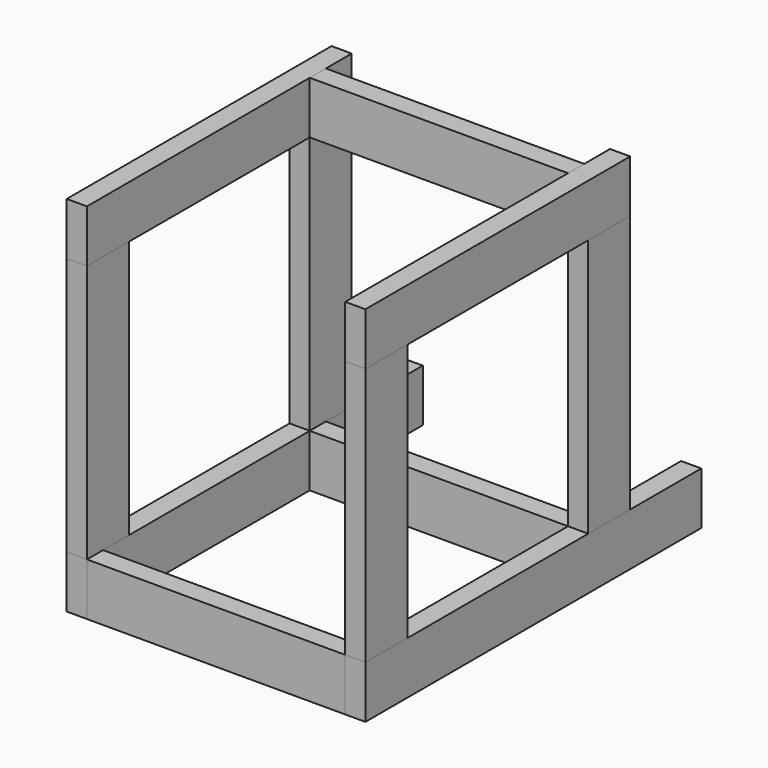
from build123d import *

# Parameters (mm, degrees)
F0_W      = 406.4
F0_H      = 31.75
F1_DEPTH  = 82.55
F2_W      = 31.75
F2_H      = 660.4
F3_DEPTH  = 82.55
F4_W      = 82.55
F4_H      = 406.4
F5_DEPTH  = 31.75
F7_DEPTH  = 31.75
F9_W      = 406.4
F9_H      = 82.55
F10_DEPTH = 31.75


with BuildPart() as f1:
    # F0 (on Top) → F1 (new body)
    with BuildSketch(Plane.XY):
        with Locations((0, 219.075)):
            Rectangle(F0_W, F0_H)
        with Locations((0, -219.075)):
            Rectangle(F0_W, F0_H)
    extrude(amount=F1_DEPTH)


with BuildPart() as f3:
    # F2 (on Top) → F3 (new body)
    with BuildSketch(Plane.XY):
        with Locations((-219.075, 95.25)):
            Rectangle(F2_W, F2_H)
        with Locations((219.075, 95.25)):
            Rectangle(F2_W, F2_H)
    extrude(amount=F3_DEPTH)


with BuildPart() as f5:
    # F4 (on face) → F5 (new body)
    with BuildSketch(Plane.YZ.offset(234.95)):
        with Locations((-193.675, 285.75)):
            Rectangle(F4_W, F4_H)
        with Locations((244.475, 285.75)):
            Rectangle(F4_W, F4_H)
    extrude(amount=-F5_DEPTH)


with BuildPart() as f7:
    # F6 (on face) → F7 (new body)
    with BuildSketch(Plane.YZ.offset(234.95)):
        Polygon((-234.95, 571.5), (-234.95, 488.95), (-152.4, 488.95), (285.75, 488.95), (285.75, 571.5), align=None)
    extrude(amount=-F7_DEPTH)


with BuildPart() as f8_1:
    # F8: instance of F5
    add(f5.part.mirror(Plane.YZ))


with BuildPart() as f8_2:
    # F8: instance of F7
    add(f7.part.mirror(Plane.YZ))


with BuildPart() as f10:
    # F9 (on face) → F10 (new body)
    with BuildSketch(Plane.XZ.offset(-203.2)):
        with Locations((0, 530.225)):
            Rectangle(F9_W, F9_H)
    extrude(amount=-F10_DEPTH)


solid = Compound([f1.part, f3.part, f5.part, f7.part, f8_1.part, f8_2.part, f10.part])
